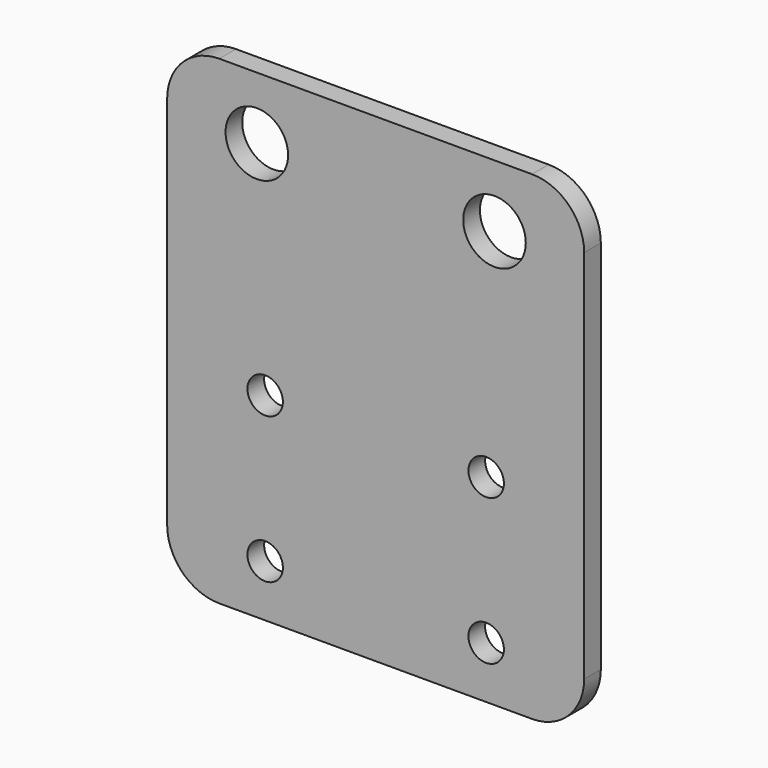
from build123d import *

# Parameters (mm, degrees)
F0_R     = 8.5
F0_R_2   = 15
F1_DEPTH = 10


with BuildPart() as f1:
    # F0 (on Front) → F1 (new body)
    with BuildSketch(Plane.XZ):
        with BuildLine():
            ThreePointArc((0, 25), (7.32233, 7.32233), (25, 0))
            Line((25, 0), (175, 0))
            ThreePointArc((175, 0), (192.67767, 7.32233), (200, 25))
            Line((200, 25), (200, 205))
            ThreePointArc((200, 205), (192.67767, 222.67767), (175, 230))
            Line((175, 230), (25, 230))
            ThreePointArc((25, 230), (7.32233, 222.67767), (0, 205))
            Line((0, 205), (0, 25))
        make_face()
        with Locations((47, 25)):
            Circle(F0_R, mode=Mode.SUBTRACT)
        with Locations((47, 95)):
            Circle(F0_R, mode=Mode.SUBTRACT)
        with Locations((153, 25)):
            Circle(F0_R, mode=Mode.SUBTRACT)
        with Locations((153, 95)):
            Circle(F0_R, mode=Mode.SUBTRACT)
        with Locations((43, 200)):
            Circle(F0_R_2, mode=Mode.SUBTRACT)
        with Locations((157, 200)):
            Circle(F0_R_2, mode=Mode.SUBTRACT)
    extrude(amount=F1_DEPTH)


solid = f1.part
